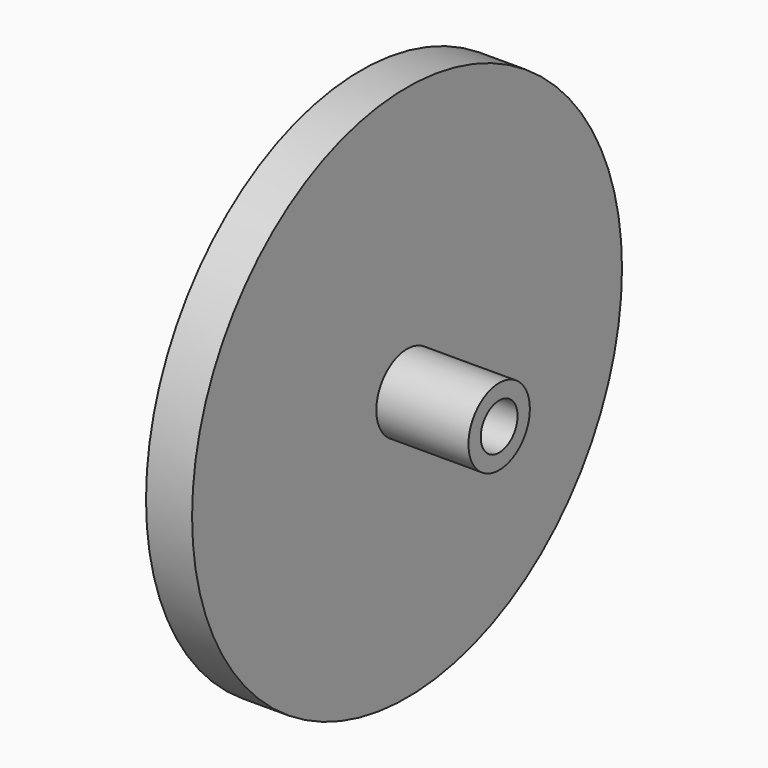
from build123d import *

# Parameters (mm, degrees)
F0_R     = 20
F1_DEPTH = 15
F2_R     = 17.5
F2_R_2   = 2.5
F3_DEPTH = 6
F4_R     = 1.5
F5_DEPTH = 25
F6_R     = 17.5
F6_R_2   = 2.5
F7_DEPTH = 6
F8_DEPTH = 25


with BuildPart() as f1:
    # F0 (on Right) → F1 (new body)
    with BuildSketch(Plane.YZ):
        Circle(F0_R)
    extrude(amount=F1_DEPTH)

    # F2 (on face) → F3 (cut)
    with BuildSketch(Plane.YZ.offset(15)):
        Circle(F2_R)
        Circle(F2_R_2, mode=Mode.SUBTRACT)
    extrude(amount=-F3_DEPTH, mode=Mode.SUBTRACT)

    # F4 (on face) → F5 (cut)
    with BuildSketch(Plane.YZ.offset(15)):
        Circle(F4_R)
    extrude(amount=-F5_DEPTH, mode=Mode.SUBTRACT)

    # F6 (on face) → F7 (cut)
    with BuildSketch(Plane(origin=(0, 0, 0), x_dir=(0, -1, 0), z_dir=(-1, 0, 0))):
        Circle(F6_R)
        Circle(F6_R_2, mode=Mode.SUBTRACT)
    extrude(amount=-F7_DEPTH, mode=Mode.SUBTRACT)

    # F8 (cut): a face of the model
    f8_faces = [f1.faces().sort_by_distance(p)[0] for p in [
        (15, -19.4343145751, 0),
    ]]
    extrude(f8_faces, amount=-F8_DEPTH, mode=Mode.SUBTRACT)


solid = f1.part
